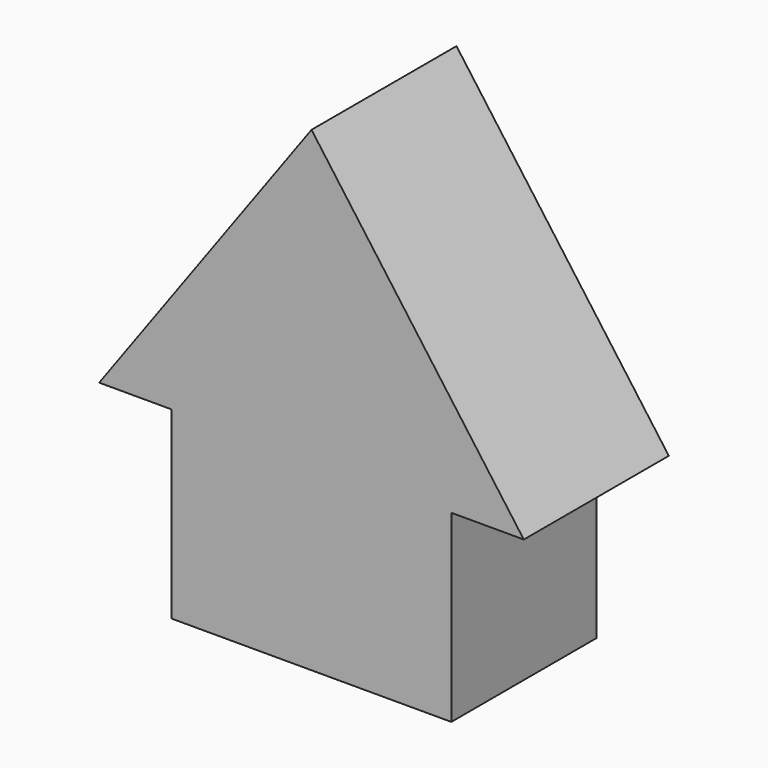
from build123d import *

# Parameters (mm, degrees)
F0_W     = 38.569314
F0_H     = 25.4
F2_DEPTH = 25
F1_W     = 8.741682
F1_H     = 18.53032
F3_DEPTH = 5


with BuildPart() as f2:
    # F0 (on Front) → F2 (new body)
    with BuildSketch(Plane.XZ):
        Rectangle(F0_W, F0_H)
        Polygon((-19.284657, 12.7), (19.284657, 12.7), (29.284657, 12.7), (0, 52.932777), (-29.284657, 12.7), align=None)
    extrude(amount=F2_DEPTH)

    # F1 (on Front) → F3 (cut)
    with BuildSketch(Plane.XZ):
        with Locations((-0.139853, -3.43484)):
            Rectangle(F1_W, F1_H)
    extrude(amount=F3_DEPTH, mode=Mode.SUBTRACT)


solid = f2.part
